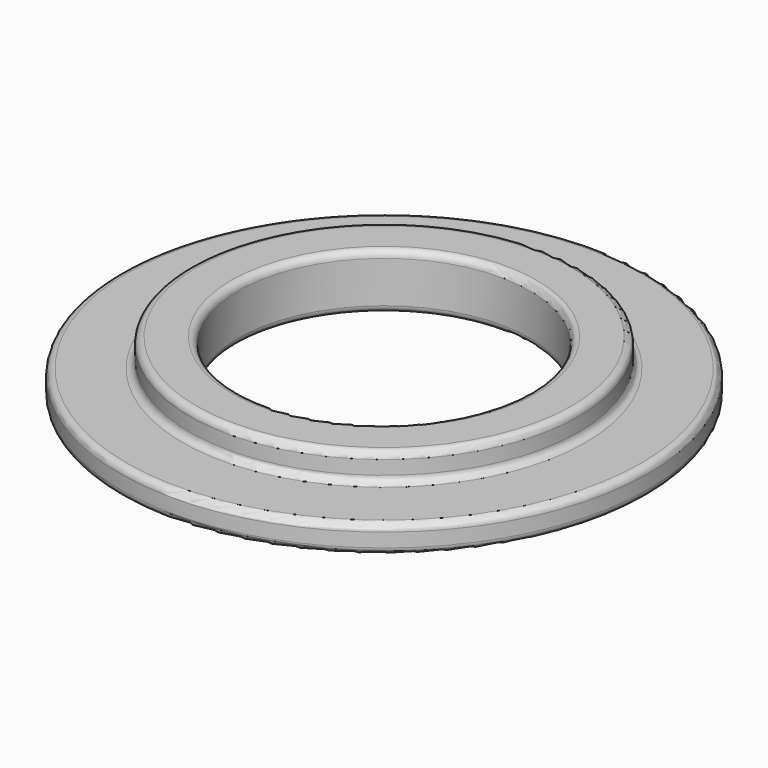
from build123d import *

# Parameters (mm, degrees)
F0_R     = 14
F0_R_2   = 10.5
F1_DEPTH = 2
F2_R     = 19
F2_R_2   = 10.5
F3_DEPTH = 2
F4_R     = 0.5


with BuildPart() as f1:
    # F0 (on Top) → F1 (new body)
    with BuildSketch(Plane.XY):
        Circle(F0_R)
        Circle(F0_R_2, mode=Mode.SUBTRACT)
    extrude(amount=F1_DEPTH)

    # F2 (on face) → F3 (join)
    with BuildSketch(Plane(origin=(0, 0, 0), x_dir=(1, 0, 0), z_dir=(0, 0, -1))):
        Circle(F2_R)
        Circle(F2_R_2, mode=Mode.SUBTRACT)
    extrude(amount=F3_DEPTH)

    # F4
    f4_edges = [f1.edges().sort_by_distance(p)[0] for p in [
        (-10.5, 0, 2),
        (-14, 0, 2),
        (-19, 0, 0),
        (-14, 0, 0),
        (-19, 0, -2),
        (-10.5, 0, -2),
    ]]
    fillet(f4_edges, radius=F4_R)


solid = f1.part
